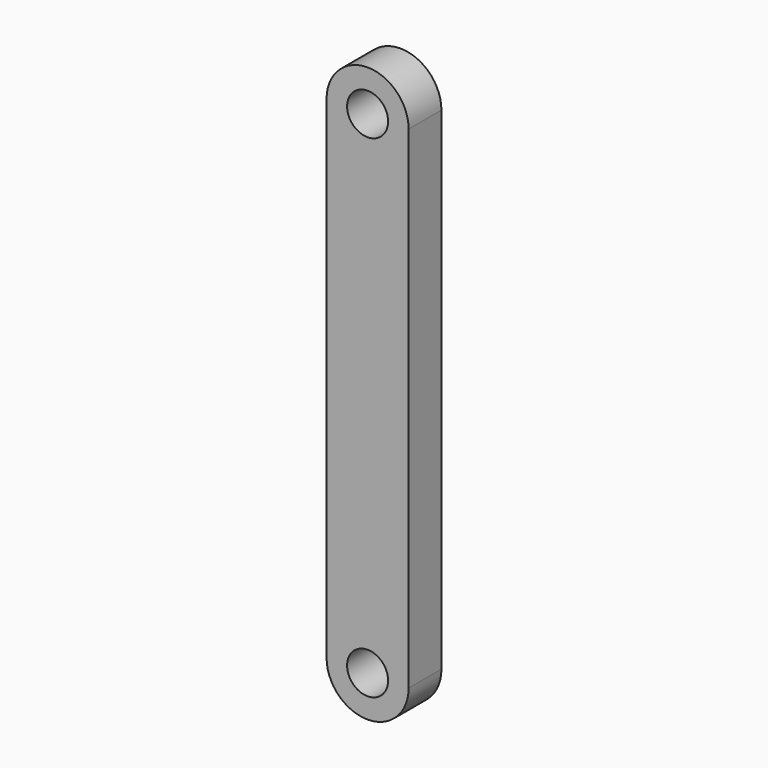
from build123d import *

# Parameters (mm, degrees)
F0_R     = 2.5
F1_DEPTH = 2.5


with BuildPart() as f1:
    # F0 (on Front) → F1 (new body, symmetric)
    with BuildSketch(Plane.XZ):
        with BuildLine():
            Line((-5, 60), (-5, 0))
            ThreePointArc((-5, 0), (0, -5), (5, 0))
            Line((5, 0), (5, 60))
            ThreePointArc((5, 60), (0, 65), (-5, 60))
        make_face()
        Circle(F0_R, mode=Mode.SUBTRACT)
        with Locations((0, 60)):
            Circle(F0_R, mode=Mode.SUBTRACT)
    extrude(amount=F1_DEPTH, both=True)


solid = f1.part
